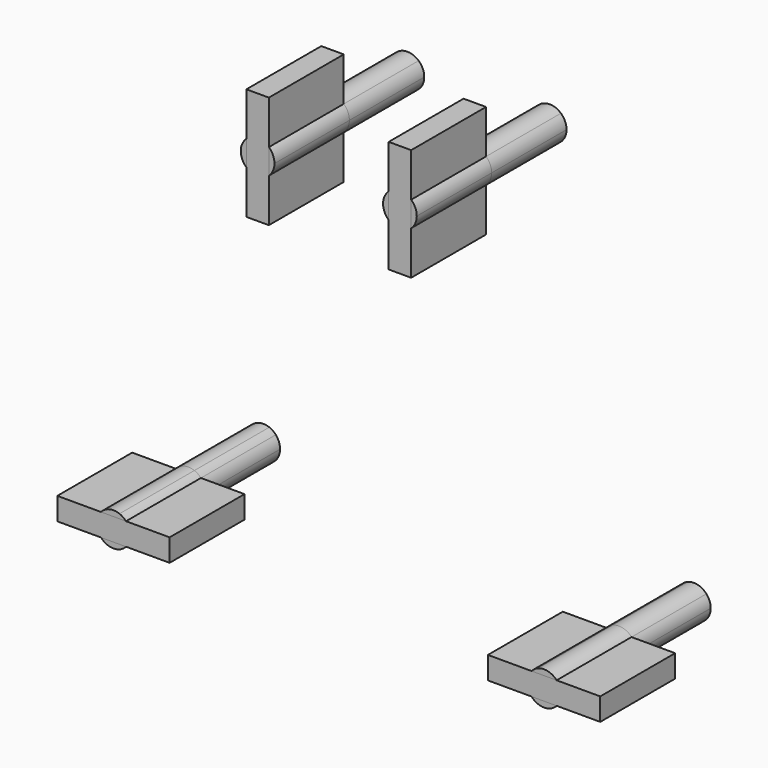
from build123d import *

# Parameters (mm, degrees)
F1_DEPTH      = 5
F1_DEPTH_BACK = 5
F2_DEPTH      = 5


with BuildPart() as f1:
    # F0 (on Front) → F1 (new body, two sides)
    with BuildSketch(Plane.XZ) as f1_sk:
        with BuildLine():
            Line((-3.8, 20), (-3.2, 20))
            Line((-3.2, 20), (-3.2, 20.6708203932))
            ThreePointArc((-3.2, 20.6708203932), (-3.8, 20.9), (-4.4, 20.6708203932))
            Line((-4.4, 20.6708203932), (-4.4, 19.3291796068))
            ThreePointArc((-4.4, 19.3291796068), (-4.2693578785, 19.2320786617), (-4.123362564, 19.1600972364))
            Line((-4.123362564, 19.1600972364), (-3.8, 20))
        make_face()
        with BuildLine():
            Line((-3.2, 19.3291796068), (-3.2, 20))
            Line((-3.2, 20), (-3.8, 20))
            Line((-3.8, 20), (-4.123362564, 19.1600972364))
            ThreePointArc((-4.123362564, 19.1600972364), (-3.6378911485, 19.1147199764), (-3.2, 19.3291796068))
        make_face()
        with BuildLine():
            Line((-4.4, 19.3291796068), (-4.4, 20.6708203932))
            ThreePointArc((-4.4, 20.6708203932), (-4.7, 20), (-4.4, 19.3291796068))
        make_face()
        with BuildLine():
            Line((-3.2, 20), (-2.9, 20))
            ThreePointArc((-2.9, 20), (-2.9784161637, 20.3674234614), (-3.2, 20.6708203932))
            Line((-3.2, 20.6708203932), (-3.2, 20))
        make_face()
        with BuildLine():
            ThreePointArc((-3.2, 19.3291796068), (-2.9784161637, 19.6325765386), (-2.9, 20))
            Line((-2.9, 20), (-3.2, 20))
            Line((-3.2, 20), (-3.2, 19.3291796068))
        make_face()
    extrude(amount=-F1_DEPTH)
    extrude(f1_sk.sketch, amount=F1_DEPTH_BACK)


with BuildPart() as f1b:
    # F0 (on Front) → F1, piece 2 (new body, two sides)
    with BuildSketch(Plane.XZ) as f1_2_sk:
        with BuildLine():
            Line((3.2, 20.6708203932), (3.2, 20))
            Line((3.2, 20), (3.8, 20))
            Line((3.8, 20), (4.123362564, 19.1600972364))
            ThreePointArc((4.123362564, 19.1600972364), (4.2693578785, 19.2320786617), (4.4, 19.3291796068))
            Line((4.4, 19.3291796068), (4.4, 20.6708203932))
            ThreePointArc((4.4, 20.6708203932), (3.8, 20.9), (3.2, 20.6708203932))
        make_face()
        with BuildLine():
            Line((3.8, 20), (3.2, 20))
            Line((3.2, 20), (3.2, 19.3291796068))
            ThreePointArc((3.2, 19.3291796068), (3.6378911485, 19.1147199764), (4.123362564, 19.1600972364))
            Line((4.123362564, 19.1600972364), (3.8, 20))
        make_face()
        with BuildLine():
            ThreePointArc((4.7, 20), (4.6215838363, 20.3674234614), (4.4, 20.6708203932))
            Line((4.4, 20.6708203932), (4.4, 19.3291796068))
            ThreePointArc((4.4, 19.3291796068), (4.6215838363, 19.6325765386), (4.7, 20))
        make_face()
        with BuildLine():
            ThreePointArc((3.2, 20.6708203932), (2.9784161637, 20.3674234614), (2.9, 20))
            Line((2.9, 20), (3.2, 20))
            Line((3.2, 20), (3.2, 20.6708203932))
        make_face()
        with BuildLine():
            Line((3.2, 20), (2.9, 20))
            ThreePointArc((2.9, 20), (2.9784161637, 19.6325765386), (3.2, 19.3291796068))
            Line((3.2, 19.3291796068), (3.2, 20))
        make_face()
    extrude(amount=-F1_DEPTH)
    extrude(f1_2_sk.sketch, amount=F1_DEPTH_BACK)


with BuildPart() as f1c:
    # F0 (on Front) → F1, piece 3 (new body, two sides)
    with BuildSketch(Plane.XZ) as f1_3_sk:
        with BuildLine():
            Line((-11.5, 0), (-11.269, 0.6))
            Line((-11.269, 0.6), (-12.1708203932, 0.6))
            ThreePointArc((-12.1708203932, 0.6), (-12.4, 0), (-12.1708203932, -0.6))
            Line((-12.1708203932, -0.6), (-10.8291796068, -0.6))
            ThreePointArc((-10.8291796068, -0.6), (-10.6592448769, -0.3211398808), (-10.6, 0))
            Line((-10.6, 0), (-11.5, 0))
        make_face()
        with BuildLine():
            Line((-10.8291796068, 0.6), (-11.269, 0.6))
            Line((-11.269, 0.6), (-11.5, 0))
            Line((-11.5, 0), (-10.6, 0))
            ThreePointArc((-10.6, 0), (-10.6592448769, 0.3211398808), (-10.8291796068, 0.6))
        make_face()
        with BuildLine():
            Line((-10.8291796068, -0.6), (-12.1708203932, -0.6))
            ThreePointArc((-12.1708203932, -0.6), (-11.5, -0.9), (-10.8291796068, -0.6))
        make_face()
        with BuildLine():
            Line((-11.269, 0.6), (-11.176637436, 0.8399027636))
            ThreePointArc((-11.176637436, 0.8399027636), (-11.7111162471, 0.8748885245), (-12.1708203932, 0.6))
            Line((-12.1708203932, 0.6), (-11.269, 0.6))
        make_face()
        with BuildLine():
            ThreePointArc((-10.8291796068, 0.6), (-10.9886407602, 0.7406157762), (-11.176637436, 0.8399027636))
            Line((-11.176637436, 0.8399027636), (-11.269, 0.6))
            Line((-11.269, 0.6), (-10.8291796068, 0.6))
        make_face()
    extrude(amount=-F1_DEPTH)
    extrude(f1_3_sk.sketch, amount=F1_DEPTH_BACK)


with BuildPart() as f1d:
    # F0 (on Front) → F1, piece 4 (new body, two sides)
    with BuildSketch(Plane.XZ) as f1_4_sk:
        with BuildLine():
            Line((12.1708203932, 0.6), (11.269, 0.6))
            Line((11.269, 0.6), (11.5, 0))
            Line((11.5, 0), (10.6, 0))
            ThreePointArc((10.6, 0), (10.6592448769, -0.3211398808), (10.8291796068, -0.6))
            Line((10.8291796068, -0.6), (12.1708203932, -0.6))
            ThreePointArc((12.1708203932, -0.6), (12.3407551231, -0.3211398808), (12.4, 0))
            ThreePointArc((12.4, 0), (12.3407551231, 0.3211398808), (12.1708203932, 0.6))
        make_face()
        with BuildLine():
            Line((11.5, 0), (11.269, 0.6))
            Line((11.269, 0.6), (10.8291796068, 0.6))
            ThreePointArc((10.8291796068, 0.6), (10.6592448769, 0.3211398808), (10.6, 0))
            Line((10.6, 0), (11.5, 0))
        make_face()
        with BuildLine():
            ThreePointArc((12.1708203932, 0.6), (11.7111162471, 0.8748885245), (11.176637436, 0.8399027636))
            Line((11.176637436, 0.8399027636), (11.269, 0.6))
            Line((11.269, 0.6), (12.1708203932, 0.6))
        make_face()
        with BuildLine():
            Line((11.269, 0.6), (11.176637436, 0.8399027636))
            ThreePointArc((11.176637436, 0.8399027636), (10.9886407602, 0.7406157762), (10.8291796068, 0.6))
            Line((10.8291796068, 0.6), (11.269, 0.6))
        make_face()
        with BuildLine():
            ThreePointArc((10.8291796068, -0.6), (11.5, -0.9), (12.1708203932, -0.6))
            Line((12.1708203932, -0.6), (10.8291796068, -0.6))
        make_face()
    extrude(amount=-F1_DEPTH)
    extrude(f1_4_sk.sketch, amount=F1_DEPTH_BACK)


with BuildPart() as f2:
    # F0 (on Front) → F2 (new body)
    with BuildSketch(Plane.XZ):
        with BuildLine():
            ThreePointArc((-13.6166010489, -0.6), (-13.7, 0), (-13.6166010489, 0.6))
            Line((-13.6166010489, 0.6), (-14.5, 0.6))
            Line((-14.5, 0.6), (-14.5, -0.6))
            Line((-14.5, -0.6), (-13.6166010489, -0.6))
        make_face()
        with BuildLine():
            Line((-12.1708203932, 0.6), (-13.6166010489, 0.6))
            ThreePointArc((-13.6166010489, 0.6), (-13.7, 0), (-13.6166010489, -0.6))
            Line((-13.6166010489, -0.6), (-12.1708203932, -0.6))
            ThreePointArc((-12.1708203932, -0.6), (-12.4, 0), (-12.1708203932, 0.6))
        make_face()
        with BuildLine():
            Line((-11.5, 0), (-11.269, 0.6))
            Line((-11.269, 0.6), (-12.1708203932, 0.6))
            ThreePointArc((-12.1708203932, 0.6), (-12.4, 0), (-12.1708203932, -0.6))
            Line((-12.1708203932, -0.6), (-10.8291796068, -0.6))
            ThreePointArc((-10.8291796068, -0.6), (-10.6592448769, -0.3211398808), (-10.6, 0))
            Line((-10.6, 0), (-11.5, 0))
        make_face()
        with BuildLine():
            ThreePointArc((-9.3, 0), (-9.3209494834, 0.3028842126), (-9.3833989511, 0.6))
            Line((-9.3833989511, 0.6), (-10.8291796068, 0.6))
            ThreePointArc((-10.8291796068, 0.6), (-10.6592448769, 0.3211398808), (-10.6, 0))
            Line((-10.6, 0), (-9.3, 0))
        make_face()
        with BuildLine():
            ThreePointArc((-9.3833989511, -0.6), (-9.3209494834, -0.3028842126), (-9.3, 0))
            Line((-9.3, 0), (-10.6, 0))
            ThreePointArc((-10.6, 0), (-10.6592448769, -0.3211398808), (-10.8291796068, -0.6))
            Line((-10.8291796068, -0.6), (-9.3833989511, -0.6))
        make_face()
        with BuildLine():
            Line((-8.5, 0), (-9.3, 0))
            ThreePointArc((-9.3, 0), (-9.3209494834, -0.3028842126), (-9.3833989511, -0.6))
            Line((-9.3833989511, -0.6), (-8.5, -0.6))
            Line((-8.5, -0.6), (-8.5, 0))
        make_face()
        with BuildLine():
            Line((-8.5, 0.6), (-9.3833989511, 0.6))
            ThreePointArc((-9.3833989511, 0.6), (-9.3209494834, 0.3028842126), (-9.3, 0))
            Line((-9.3, 0), (-8.5, 0))
            Line((-8.5, 0), (-8.5, 0.6))
        make_face()
        with BuildLine():
            Line((-10.8291796068, 0.6), (-11.269, 0.6))
            Line((-11.269, 0.6), (-11.5, 0))
            Line((-11.5, 0), (-10.6, 0))
            ThreePointArc((-10.6, 0), (-10.6592448769, 0.3211398808), (-10.8291796068, 0.6))
        make_face()
    extrude(amount=F2_DEPTH)


with BuildPart() as f2b:
    # F0 (on Front) → F2, piece 2 (new body)
    with BuildSketch(Plane.XZ):
        with BuildLine():
            ThreePointArc((9.3, 0), (9.3209494834, 0.3028842126), (9.3833989511, 0.6))
            Line((9.3833989511, 0.6), (8.5, 0.6))
            Line((8.5, 0.6), (8.5, 0))
            Line((8.5, 0), (9.3, 0))
        make_face()
        with BuildLine():
            ThreePointArc((9.3833989511, -0.6), (9.3209494834, -0.3028842126), (9.3, 0))
            Line((9.3, 0), (8.5, 0))
            Line((8.5, 0), (8.5, -0.6))
            Line((8.5, -0.6), (9.3833989511, -0.6))
        make_face()
        with BuildLine():
            Line((10.6, 0), (9.3, 0))
            ThreePointArc((9.3, 0), (9.3209494834, -0.3028842126), (9.3833989511, -0.6))
            Line((9.3833989511, -0.6), (10.8291796068, -0.6))
            ThreePointArc((10.8291796068, -0.6), (10.6592448769, -0.3211398808), (10.6, 0))
        make_face()
        with BuildLine():
            Line((10.8291796068, 0.6), (9.3833989511, 0.6))
            ThreePointArc((9.3833989511, 0.6), (9.3209494834, 0.3028842126), (9.3, 0))
            Line((9.3, 0), (10.6, 0))
            ThreePointArc((10.6, 0), (10.6592448769, 0.3211398808), (10.8291796068, 0.6))
        make_face()
        with BuildLine():
            Line((11.5, 0), (11.269, 0.6))
            Line((11.269, 0.6), (10.8291796068, 0.6))
            ThreePointArc((10.8291796068, 0.6), (10.6592448769, 0.3211398808), (10.6, 0))
            Line((10.6, 0), (11.5, 0))
        make_face()
        with BuildLine():
            Line((12.1708203932, 0.6), (11.269, 0.6))
            Line((11.269, 0.6), (11.5, 0))
            Line((11.5, 0), (10.6, 0))
            ThreePointArc((10.6, 0), (10.6592448769, -0.3211398808), (10.8291796068, -0.6))
            Line((10.8291796068, -0.6), (12.1708203932, -0.6))
            ThreePointArc((12.1708203932, -0.6), (12.3407551231, -0.3211398808), (12.4, 0))
            ThreePointArc((12.4, 0), (12.3407551231, 0.3211398808), (12.1708203932, 0.6))
        make_face()
        with BuildLine():
            ThreePointArc((13.7, 0), (13.6790505166, 0.3028842126), (13.6166010489, 0.6))
            Line((13.6166010489, 0.6), (12.1708203932, 0.6))
            ThreePointArc((12.1708203932, 0.6), (12.3407551231, 0.3211398808), (12.4, 0))
            ThreePointArc((12.4, 0), (12.3407551231, -0.3211398808), (12.1708203932, -0.6))
            Line((12.1708203932, -0.6), (13.6166010489, -0.6))
            ThreePointArc((13.6166010489, -0.6), (13.6790505166, -0.3028842126), (13.7, 0))
        make_face()
        with BuildLine():
            Line((14.5, 0.6), (13.6166010489, 0.6))
            ThreePointArc((13.6166010489, 0.6), (13.6790505166, 0.3028842126), (13.7, 0))
            ThreePointArc((13.7, 0), (13.6790505166, -0.3028842126), (13.6166010489, -0.6))
            Line((13.6166010489, -0.6), (14.5, -0.6))
            Line((14.5, -0.6), (14.5, 0.6))
        make_face()
    extrude(amount=F2_DEPTH)


with BuildPart() as f2c:
    # F0 (on Front) → F2, piece 3 (new body)
    with BuildSketch(Plane.XZ):
        with BuildLine():
            ThreePointArc((4.4, 17.8833989511), (3.8, 17.8), (3.2, 17.8833989511))
            Line((3.2, 17.8833989511), (3.2, 17))
            Line((3.2, 17), (4.4, 17))
            Line((4.4, 17), (4.4, 17.8833989511))
        make_face()
        with BuildLine():
            Line((3.2, 19.3291796068), (3.2, 17.8833989511))
            ThreePointArc((3.2, 17.8833989511), (3.8, 17.8), (4.4, 17.8833989511))
            Line((4.4, 17.8833989511), (4.4, 18.4415584416))
            Line((4.4, 18.4415584416), (4.123362564, 19.1600972364))
            ThreePointArc((4.123362564, 19.1600972364), (3.6378911485, 19.1147199764), (3.2, 19.3291796068))
        make_face()
        with BuildLine():
            Line((3.8, 20), (3.2, 20))
            Line((3.2, 20), (3.2, 19.3291796068))
            ThreePointArc((3.2, 19.3291796068), (3.6378911485, 19.1147199764), (4.123362564, 19.1600972364))
            Line((4.123362564, 19.1600972364), (3.8, 20))
        make_face()
        with BuildLine():
            ThreePointArc((4.4, 19.3291796068), (4.2693578785, 19.2320786617), (4.123362564, 19.1600972364))
            Line((4.123362564, 19.1600972364), (4.4, 18.4415584416))
            Line((4.4, 18.4415584416), (4.4, 19.3291796068))
        make_face()
        with BuildLine():
            Line((3.2, 20.6708203932), (3.2, 20))
            Line((3.2, 20), (3.8, 20))
            Line((3.8, 20), (4.123362564, 19.1600972364))
            ThreePointArc((4.123362564, 19.1600972364), (4.2693578785, 19.2320786617), (4.4, 19.3291796068))
            Line((4.4, 19.3291796068), (4.4, 20.6708203932))
            ThreePointArc((4.4, 20.6708203932), (3.8, 20.9), (3.2, 20.6708203932))
        make_face()
        with BuildLine():
            ThreePointArc((4.4, 22.1166010489), (3.8, 22.2), (3.2, 22.1166010489))
            Line((3.2, 22.1166010489), (3.2, 20.6708203932))
            ThreePointArc((3.2, 20.6708203932), (3.8, 20.9), (4.4, 20.6708203932))
            Line((4.4, 20.6708203932), (4.4, 22.1166010489))
        make_face()
        with BuildLine():
            Line((3.2, 23), (3.2, 22.1166010489))
            ThreePointArc((3.2, 22.1166010489), (3.8, 22.2), (4.4, 22.1166010489))
            Line((4.4, 22.1166010489), (4.4, 23))
            Line((4.4, 23), (3.2, 23))
        make_face()
    extrude(amount=F2_DEPTH)


with BuildPart() as f2d:
    # F0 (on Front) → F2, piece 4 (new body)
    with BuildSketch(Plane.XZ):
        with BuildLine():
            Line((-3.2, 17.8833989511), (-3.2, 19.3291796068))
            ThreePointArc((-3.2, 19.3291796068), (-3.6378911485, 19.1147199764), (-4.123362564, 19.1600972364))
            Line((-4.123362564, 19.1600972364), (-4.4, 18.4415584416))
            Line((-4.4, 18.4415584416), (-4.4, 17.8833989511))
            ThreePointArc((-4.4, 17.8833989511), (-3.8, 17.8), (-3.2, 17.8833989511))
        make_face()
        with BuildLine():
            Line((-3.2, 17), (-3.2, 17.8833989511))
            ThreePointArc((-3.2, 17.8833989511), (-3.8, 17.8), (-4.4, 17.8833989511))
            Line((-4.4, 17.8833989511), (-4.4, 17))
            Line((-4.4, 17), (-3.2, 17))
        make_face()
        with BuildLine():
            Line((-4.4, 18.4415584416), (-4.123362564, 19.1600972364))
            ThreePointArc((-4.123362564, 19.1600972364), (-4.2693578785, 19.2320786617), (-4.4, 19.3291796068))
            Line((-4.4, 19.3291796068), (-4.4, 18.4415584416))
        make_face()
        with BuildLine():
            Line((-3.8, 20), (-3.2, 20))
            Line((-3.2, 20), (-3.2, 20.6708203932))
            ThreePointArc((-3.2, 20.6708203932), (-3.8, 20.9), (-4.4, 20.6708203932))
            Line((-4.4, 20.6708203932), (-4.4, 19.3291796068))
            ThreePointArc((-4.4, 19.3291796068), (-4.2693578785, 19.2320786617), (-4.123362564, 19.1600972364))
            Line((-4.123362564, 19.1600972364), (-3.8, 20))
        make_face()
        with BuildLine():
            Line((-3.2, 19.3291796068), (-3.2, 20))
            Line((-3.2, 20), (-3.8, 20))
            Line((-3.8, 20), (-4.123362564, 19.1600972364))
            ThreePointArc((-4.123362564, 19.1600972364), (-3.6378911485, 19.1147199764), (-3.2, 19.3291796068))
        make_face()
        with BuildLine():
            ThreePointArc((-4.4, 20.6708203932), (-3.8, 20.9), (-3.2, 20.6708203932))
            Line((-3.2, 20.6708203932), (-3.2, 22.1166010489))
            ThreePointArc((-3.2, 22.1166010489), (-3.8, 22.2), (-4.4, 22.1166010489))
            Line((-4.4, 22.1166010489), (-4.4, 20.6708203932))
        make_face()
        with BuildLine():
            ThreePointArc((-4.4, 22.1166010489), (-3.8, 22.2), (-3.2, 22.1166010489))
            Line((-3.2, 22.1166010489), (-3.2, 23))
            Line((-3.2, 23), (-4.4, 23))
            Line((-4.4, 23), (-4.4, 22.1166010489))
        make_face()
    extrude(amount=F2_DEPTH)


solid = Compound([f1.part, f1b.part, f1c.part, f1d.part, f2.part, f2b.part, f2c.part, f2d.part])
